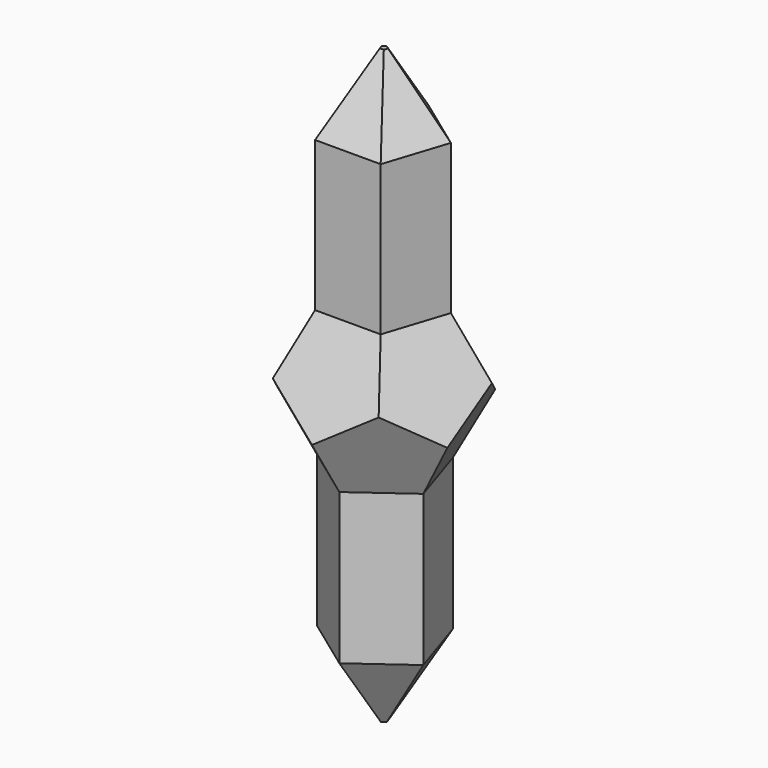
from build123d import *

# Parameters (mm, degrees)
F1_DEPTH = 33.02
F1_TAPER = -26.56505118
F3_DEPTH = 33.02
F3_TAPER = -26.56505118
F5_DEPTH = 50.8
F6_SIZE2 = 16.7177543947
F6_SIZE  = 9.652
F8_DEPTH = 50.8
F9_SIZE2 = 16.51
F9_SIZE  = 9.5320529443


with BuildPart() as f1:
    # F0 (on Top) → F1 (new body)
    with BuildSketch(Plane.XY):
        Polygon((12.0784177569, -3.9245158286), (7.4648727041, 10.2745158286), (-7.4648727041, 10.2745158286), (-12.0784177569, -3.9245158286), (0, -12.7), align=None)
    extrude(amount=F1_DEPTH, taper=F1_TAPER)

    # F2 (on face) → F3 (intersect)
    with BuildSketch(Plane.XY.offset(33.02)):
        Polygon((7.4648727041, -10.2745158286), (12.0784177569, 3.9245158286), (0, 12.7), (-12.0784177569, 3.9245158286), (-7.4648727041, -10.2745158286), align=None)
    extrude(amount=-F3_DEPTH, taper=F3_TAPER, mode=Mode.INTERSECT)

    # F4 (on face) → F5 (join)
    with BuildSketch(Plane.XY.offset(33.02)):
        Polygon((-12.0784177569, 3.9245158286), (-7.4648727041, -10.2745158286), (7.4648727041, -10.2745158286), (12.0784177569, 3.9245158286), (0, 12.7), align=None)
    extrude(amount=F5_DEPTH)

    # F6
    f6_edges = [f1.edges().sort_by_distance(p)[0] for p in [
        (9.771645, -3.175, 83.82),
        (0, -10.274516, 83.82),
        (-9.771645, -3.175, 83.82),
        (-6.039209, 8.312258, 83.82),
        (6.039209, 8.312258, 83.82),
    ]]
    f6_side = f1.faces().sort_by_distance((0, 0, 83.82))[0]
    chamfer(f6_edges, length=F6_SIZE, length2=F6_SIZE2, reference=f6_side)

    # F7 (on face) → F8 (join)
    with BuildSketch(Plane(origin=(0, 0, 0), x_dir=(1, 0, 0), z_dir=(0, 0, -1))):
        Polygon((0, 12.7), (-12.0784177569, 3.9245158286), (-7.4648727041, -10.2745158286), (7.4648727041, -10.2745158286), (12.0784177569, 3.9245158286), align=None)
    extrude(amount=F8_DEPTH)

    # F9
    f9_edges = [f1.edges().sort_by_distance(p)[0] for p in [
        (-9.771645, 3.175, -50.8),
        (0, 10.274516, -50.8),
        (9.771645, 3.175, -50.8),
        (6.039209, -8.312258, -50.8),
        (-6.039209, -8.312258, -50.8),
    ]]
    f9_side = f1.faces().sort_by_distance((0, 0, -50.8))[0]
    chamfer(f9_edges, length=F9_SIZE, length2=F9_SIZE2, reference=f9_side)


solid = f1.part
